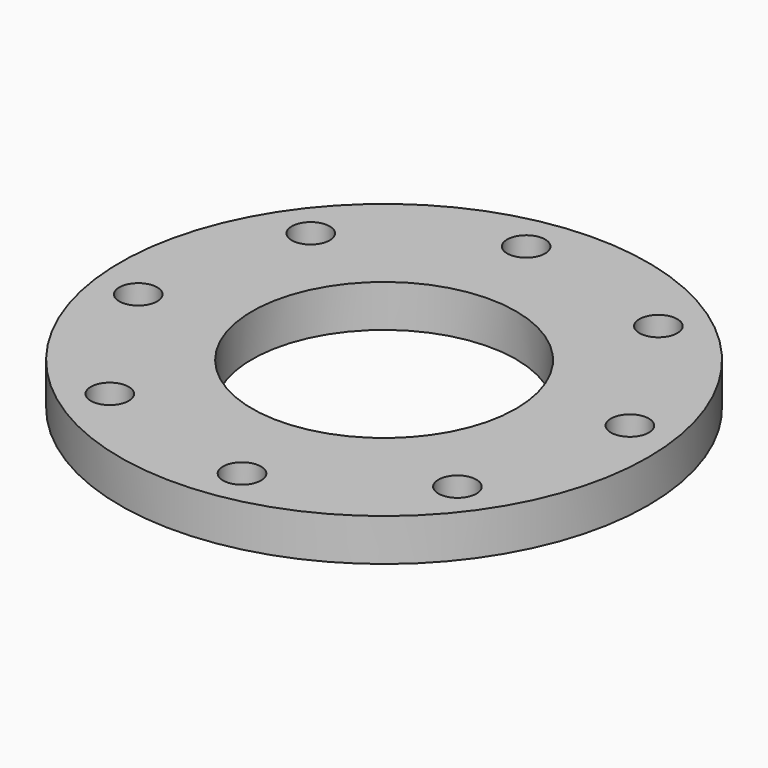
from build123d import *

# Parameters (mm, degrees)
F0_R     = 125
F0_R_2   = 9
F0_R_3   = 62.5
F1_DEPTH = 20


with BuildPart() as f1:
    # F0 (on Top) → F1 (new body)
    with BuildSketch(Plane.XY):
        Circle(F0_R)
        with Locations((-62.263312, -84.547502)):
            Circle(F0_R_2, mode=Mode.SUBTRACT)
        with Locations((-103.810922, -15.757302)):
            Circle(F0_R_2, mode=Mode.SUBTRACT)
        with Locations((15.757302, -103.810922)):
            Circle(F0_R_2, mode=Mode.SUBTRACT)
        with Locations((84.547502, -62.263312)):
            Circle(F0_R_2, mode=Mode.SUBTRACT)
        with Locations((-84.547502, 62.263312)):
            Circle(F0_R_2, mode=Mode.SUBTRACT)
        with Locations((-15.757302, 103.810922)):
            Circle(F0_R_2, mode=Mode.SUBTRACT)
        Circle(F0_R_3, mode=Mode.SUBTRACT)
        with Locations((103.810922, 15.757302)):
            Circle(F0_R_2, mode=Mode.SUBTRACT)
        with Locations((62.263312, 84.547502)):
            Circle(F0_R_2, mode=Mode.SUBTRACT)
    extrude(amount=F1_DEPTH)


solid = f1.part
